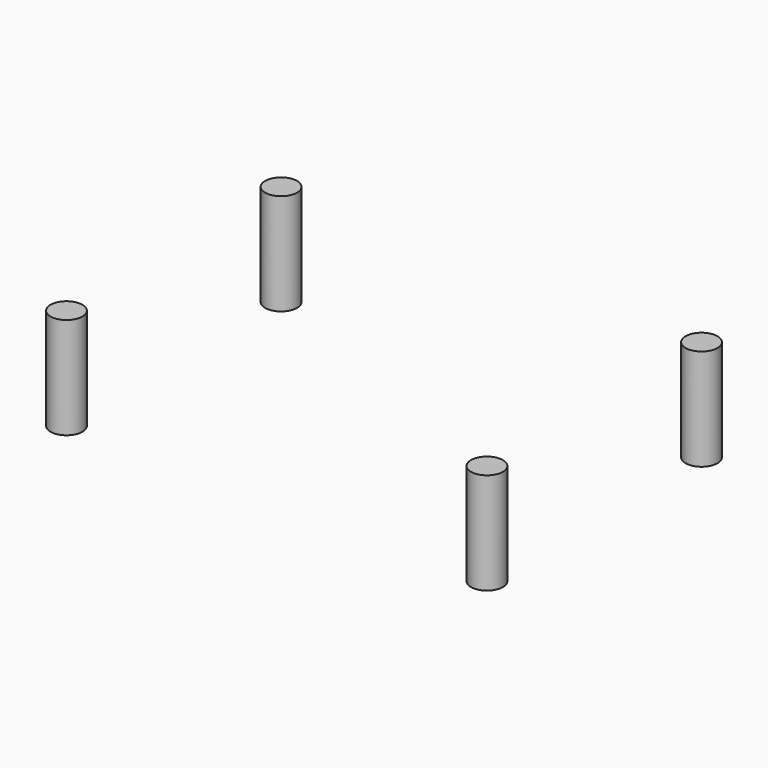
from build123d import *

# Parameters (mm, degrees)
CYLINDER004_R     = 2.2
CYLINDER004_DEPTH = 14
CYLINDER005_R     = 2.2
CYLINDER005_DEPTH = 14
CYLINDER006_R     = 2.2
CYLINDER006_DEPTH = 14
CYLINDER007_R     = 2.2
CYLINDER007_DEPTH = 14


with BuildPart() as cylinder004:
    # Cylinder004 → Cylinder004 (new body)
    with BuildSketch(Plane(origin=(6, 75, 2), x_dir=(1, 0, 0), z_dir=(0, 0, 1))):
        Circle(CYLINDER004_R)
    extrude(amount=CYLINDER004_DEPTH)


with BuildPart() as cylinder005:
    # Cylinder005 → Cylinder005 (new body)
    with BuildSketch(Plane(origin=(64, 38, 2), x_dir=(1, 0, 0), z_dir=(0, 0, 1))):
        Circle(CYLINDER005_R)
    extrude(amount=CYLINDER005_DEPTH)


with BuildPart() as cylinder006:
    # Cylinder006 → Cylinder006 (new body)
    with BuildSketch(Plane(origin=(6, 38, 2), x_dir=(1, 0, 0), z_dir=(0, 0, 1))):
        Circle(CYLINDER006_R)
    extrude(amount=CYLINDER006_DEPTH)


with BuildPart() as bases001cuts:
    # Cylinder007 → Cylinder007 (new body)
    with BuildSketch(Plane(origin=(64, 75, 2), x_dir=(1, 0, 0), z_dir=(0, 0, 1))):
        Circle(CYLINDER007_R)
    extrude(amount=CYLINDER007_DEPTH)

    # Fusion001: union Cylinder004, Cylinder005, Cylinder006
    add(cylinder004.part)
    add(cylinder005.part)
    add(cylinder006.part)


solid = bases001cuts.part
